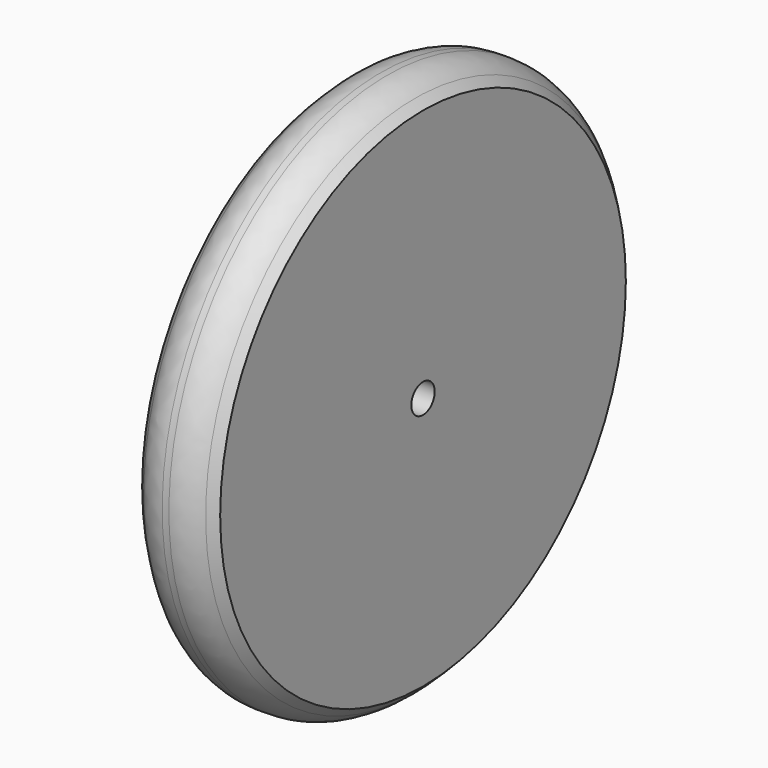
from build123d import *

# Parameters (mm, degrees)
F2_R     = 1.5
F3_DEPTH = 25
F7_R     = 4


with BuildPart() as f1:
    # F0 (on Top) → F1 (revolve)
    with BuildSketch(Plane.XY):
        Polygon((0, 5), (0, 0), (11, 0), (11, 25), (9, 25), (9, 28), (5, 28), (5, 25), (3, 25), (3, 5), align=None)
    revolve(axis=Axis((5.5, 0, 0), (1, 0, 0)))

    # F2 (on face) → F3 (cut)
    with BuildSketch(Plane(origin=(0, 0, 0), x_dir=(0, -1, 0), z_dir=(-1, 0, 0))):
        Circle(F2_R)
    extrude(amount=-F3_DEPTH, mode=Mode.SUBTRACT)

    # F5 (on Top) → F6 (revolve)
    with BuildSketch(Plane.XY):
        Polygon((3, 25), (11, 25), (11, 26), (9, 28), (5, 28), (3, 26), align=None)
    revolve(axis=Axis((0, 0, 0), (-1, 0, 0)))

    # F7
    f7_edges = [f1.edges().sort_by_distance(p)[0] for p in [
        (9, -28, 0),
        (5, -28, 0),
    ]]
    fillet(f7_edges, radius=F7_R)


solid = f1.part
